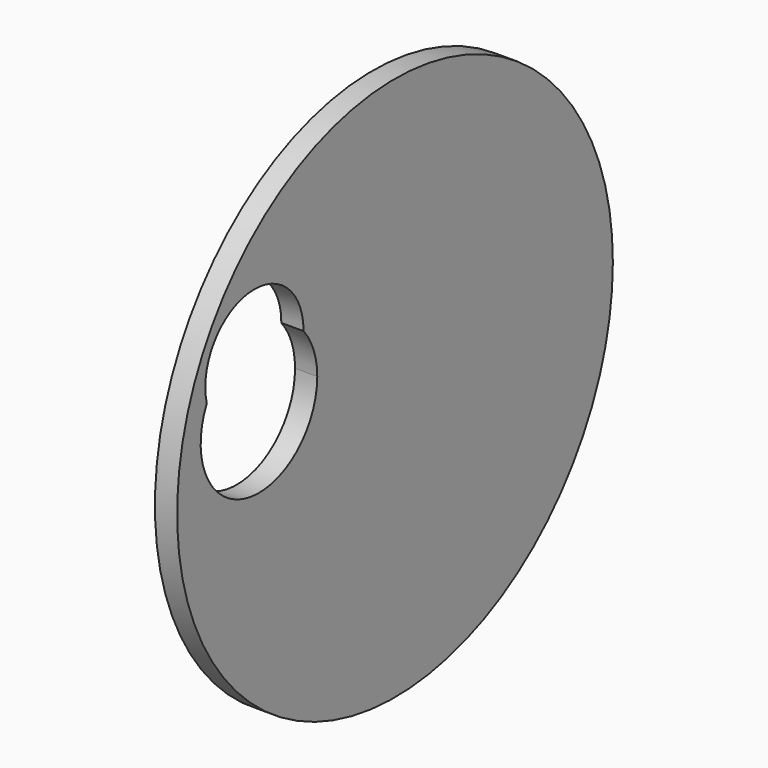
from build123d import *

# Parameters (mm, degrees)
F0_R     = 311.389693
F1_DEPTH = 25.4


with BuildPart() as f1:
    # F0 (on Right) → F1 (new body)
    with BuildSketch(Plane.YZ):
        with Locations((24.310559, -36.041971)):
            Circle(F0_R)
        with BuildLine():
            ThreePointArc((-106.448466, 74.435298), (-91.857794, 49.296591), (-86.788665, 20.67586))
            ThreePointArc((-86.788665, 20.67586), (-189.206588, -60.44115), (-244.710275, 57.832859))
            ThreePointArc((-244.710275, 57.832859), (-185.266872, 144.61801), (-106.446521, 74.957885))
            ThreePointArc((-106.446521, 74.957885), (-106.447007, 74.696589), (-106.448466, 74.435298))
        make_face(mode=Mode.SUBTRACT)
    extrude(amount=F1_DEPTH)


solid = f1.part
